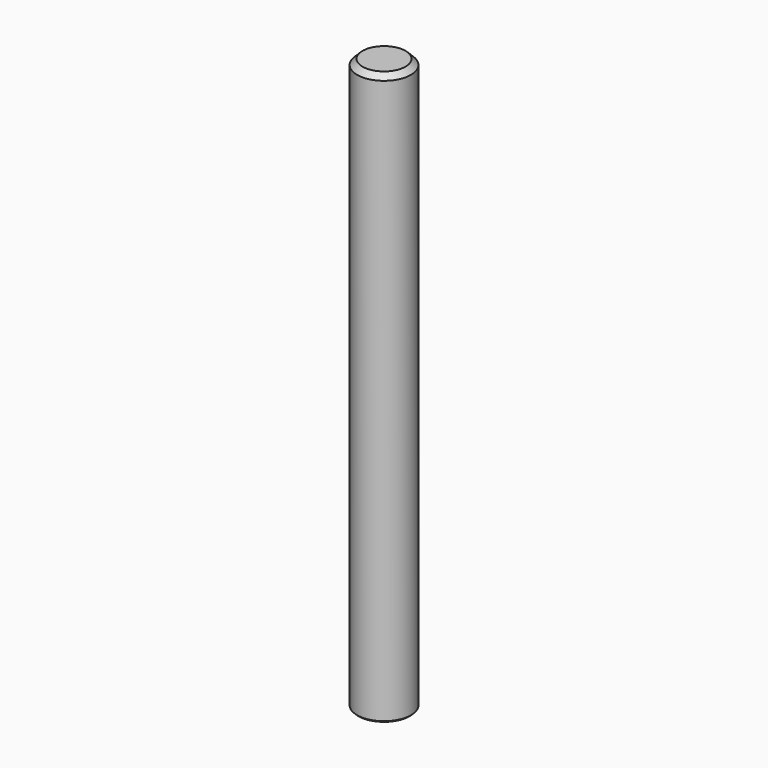
from build123d import *

# Parameters (mm, degrees)
F0_R     = 9.9
F1_DEPTH = 210
F2_SIZE  = 2
F3_R     = 2.5
F4_DEPTH = 8
F5_SIZE  = 0.5


with BuildPart() as f1:
    # F0 (on Top) → F1 (new body)
    with BuildSketch(Plane.XY):
        Circle(F0_R)
    extrude(amount=F1_DEPTH)

    # F2
    f2_edges = [f1.edges().sort_by_distance(p)[0] for p in [
        (-9.9, 0, 210),
    ]]
    chamfer(f2_edges, length=F2_SIZE)

    # F3 (on face) → F4 (cut)
    with BuildSketch(Plane(origin=(0, 0, 0), x_dir=(1, 0, 0), z_dir=(0, 0, -1))):
        Circle(F3_R)
    extrude(amount=-F4_DEPTH, mode=Mode.SUBTRACT)

    # F5
    f5_edges = [f1.edges().sort_by_distance(p)[0] for p in [
        (-9.9, 0, 0),
    ]]
    chamfer(f5_edges, length=F5_SIZE)


solid = f1.part
